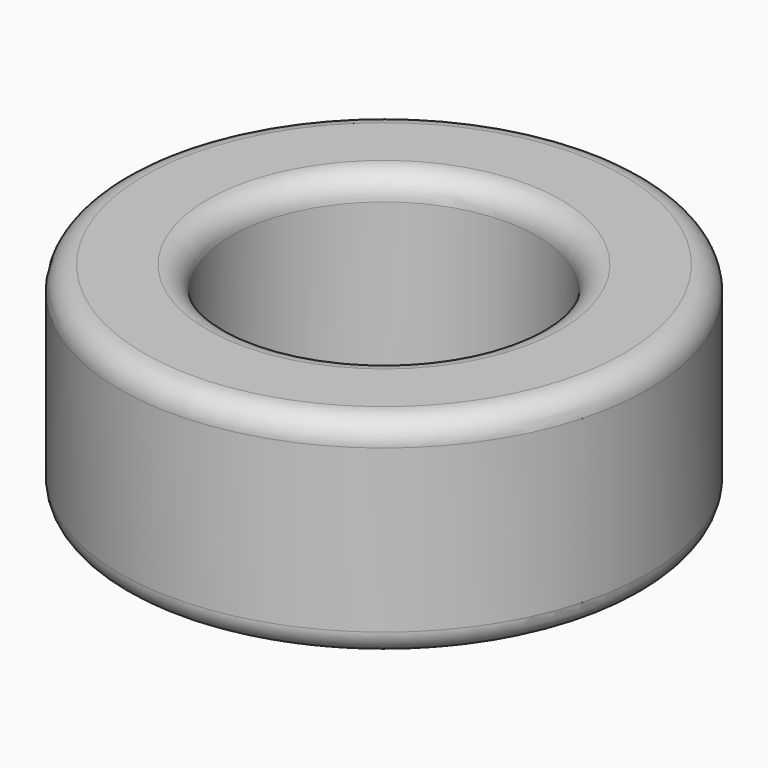
from build123d import *

# Parameters (mm, degrees)
F0_R     = 13.97
F0_R_2   = 8.0645
F1_DEPTH = 11.1125
F2_R     = 1.27


with BuildPart() as f1:
    # F0 (on Top) → F1 (new body)
    with BuildSketch(Plane.XY):
        Circle(F0_R)
        Circle(F0_R_2, mode=Mode.SUBTRACT)
    extrude(amount=F1_DEPTH)

    # F2
    f2_edges = [f1.edges().sort_by_distance(p)[0] for p in [
        (13.97, 0, 5.55625),
        (-13.97, 0, 0),
        (-13.97, 0, 11.1125),
        (-8.0645, 0, 11.1125),
        (-8.0645, 0, 0),
    ]]
    fillet(f2_edges, radius=F2_R)


solid = f1.part
